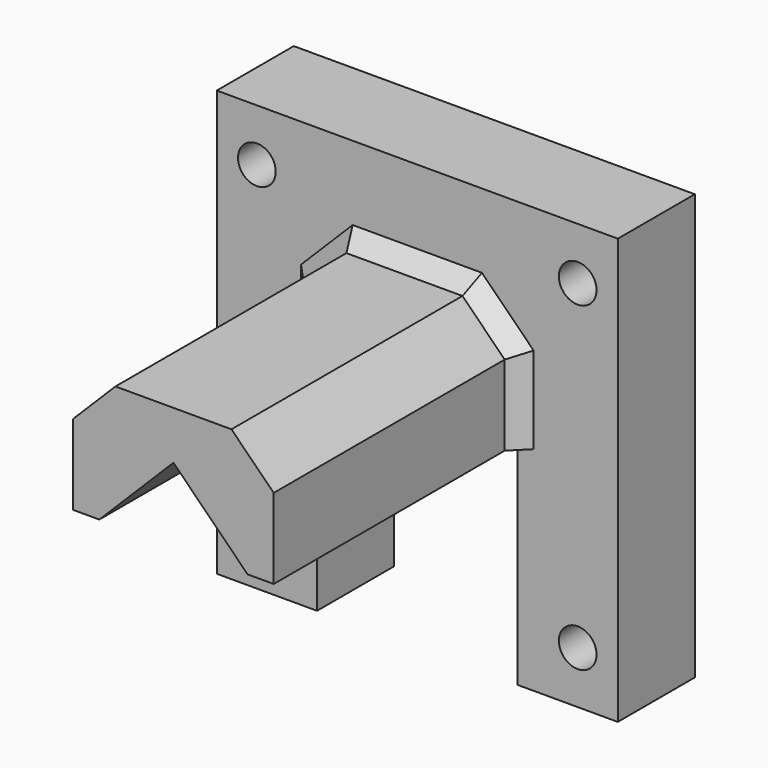
from build123d import *

# Parameters (mm, degrees)
SKETCH010_R     = 2.35
PAD004_DEPTH    = 12
PAD005_DEPTH    = 50
CHAMFER003_SIZE = 2


with BuildPart() as part:
    # Sketch010 → Pad004 (new body)
    with BuildSketch(Plane.XZ):
        Polygon((-25, 26.52046), (-25, -26.52046), (-12.5, -26.52046), (-12.5, 10), (12.5, 10), (12.5, -26.52046), (25, -26.52046), (25, 26.52046), align=None)
        with Locations((-20, -20)):
            Circle(SKETCH010_R, mode=Mode.SUBTRACT)
        with Locations((-20, 20)):
            Circle(SKETCH010_R, mode=Mode.SUBTRACT)
        with Locations((20, 20)):
            Circle(SKETCH010_R, mode=Mode.SUBTRACT)
        with Locations((20, -20)):
            Circle(SKETCH010_R, mode=Mode.SUBTRACT)
    extrude(amount=PAD004_DEPTH)

    # Sketch011 → Pad005 (join)
    with BuildSketch(Plane.XZ):
        Polygon((-12.5, 0), (-9.245766, 0), (0, 9.245766), (9.245766, 0), (12.5, 0), (12.5, 10), (7.23318, 15.26682), (-7.23318, 15.26682), (-12.5, 10), align=None)
    extrude(amount=PAD005_DEPTH)

    # Chamfer003
    chamfer003_edges = [part.edges().sort_by_distance(p)[0] for p in [
        (-12.5, -12, 5),
        (-9.86659, -12, 12.63341),
        (0, -12, 15.26682),
        (9.86659, -12, 12.63341),
        (12.5, -12, 5),
    ]]
    chamfer(chamfer003_edges, length=CHAMFER003_SIZE)


solid = part.part
